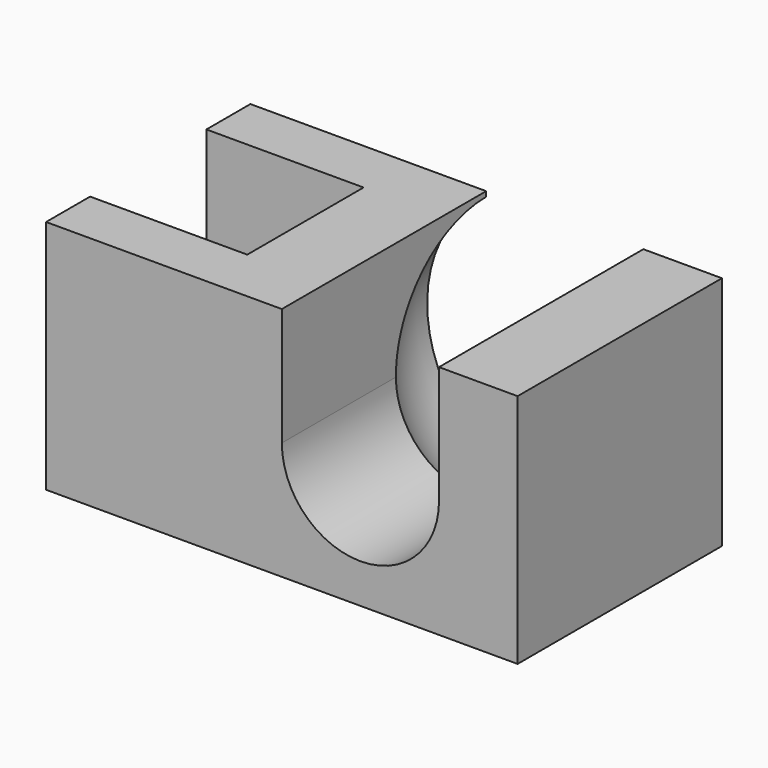
from build123d import *

# Parameters (mm, degrees)
F1_DEPTH = 30
F3_DEPTH = 32.501


with BuildPart() as f1:
    # F0 (on Top) → F1 (new body)
    with BuildSketch(Plane.XY):
        Polygon((0, 7), (0, 0), (60, 0), (60, 32.5), (0, 32.5), (0, 25.5), (20, 25.5), (20, 7), align=None)
    extrude(amount=F1_DEPTH)

    # F2 (on face) → F3 (cut, through all)
    with BuildSketch(Plane.XZ):
        with BuildLine():
            ThreePointArc((30, 15), (40, 5), (50, 15))
            ThreePointArc((50, 15), (40, 25), (30, 15))
        make_face()
        with BuildLine():
            ThreePointArc((30, 15), (40, 25), (50, 15))
            Line((50, 15), (50, 30))
            Line((50, 30), (30, 30))
            Line((30, 30), (30, 15))
        make_face()
    extrude(amount=-F3_DEPTH, mode=Mode.SUBTRACT)

    # F5 (on plane+point) → F6 (revolve, cut)
    with BuildSketch(Plane.XY.offset(15)):
        with BuildLine():
            ThreePointArc((40, 15), (52.3743686708, 20.1256313292), (57.5, 32.5))
            Line((57.5, 32.5), (40, 32.5))
            Line((40, 32.5), (40, 15))
        make_face()
    revolve(axis=Axis((40, 23.75, 15), (0, -1, 0)), mode=Mode.SUBTRACT)


solid = f1.part
